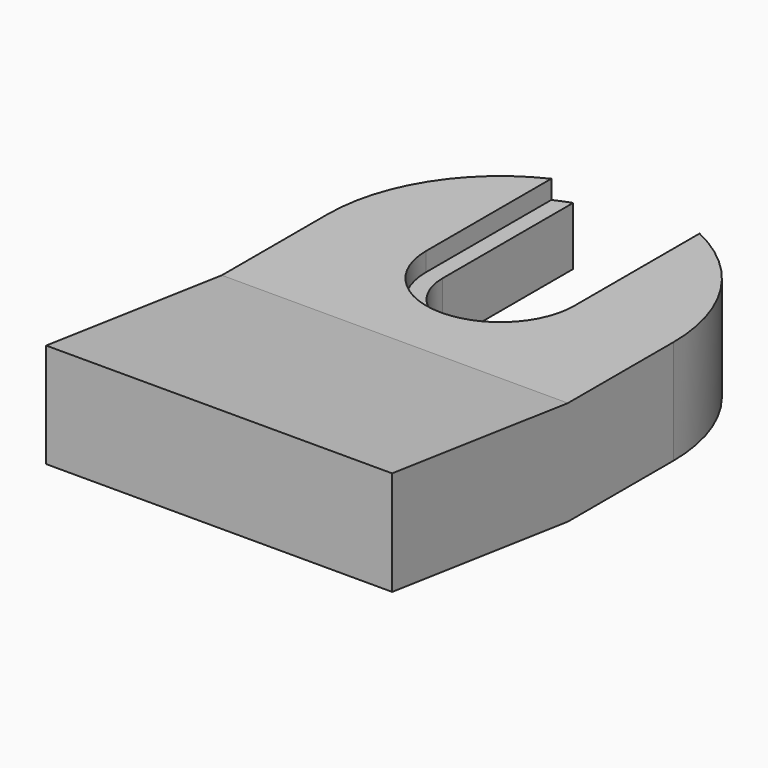
from build123d import *

# Parameters (mm, degrees)
PAD_DEPTH            = 9.5
POCKET_DEPTH         = 1.7
POCKET001_DEPTH      = 100
POCKET001_DEPTH_BACK = 100
POCKET002_DEPTH      = 2.5
POCKET003_DEPTH      = 100
POCKET003_DEPTH_BACK = 100
PAD001_DEPTH         = 31.5


with BuildPart() as part:
    # Sketch → Pad (new body)
    with BuildSketch(Plane.XY):
        with BuildLine():
            ThreePointArc((15.75, 0), (0, 15.75), (-15.75, 0))
            Line((-15.75, 0), (-15.75, -32))
            Line((-15.75, -32), (15.75, -32))
            Line((15.75, 0), (15.75, -32))
        make_face()
    extrude(amount=PAD_DEPTH)

    # Sketch002 (on Face6 of Pad) → Pocket (cut)
    with BuildSketch(Plane.XY.offset(9.5)):
        with BuildLine():
            ThreePointArc((-6.75, 0), (0, -6.75), (6.75, 0))
            Line((6.75, 0), (6.75, 32))
            Line((-6.75, 32), (6.75, 32))
            Line((-6.75, 0), (-6.75, 32))
        make_face()
    extrude(amount=-POCKET_DEPTH, mode=Mode.SUBTRACT)

    # Sketch001 (on Face6 of Pad) → Pocket001 (cut, two sides)
    with BuildSketch(Plane.XY.offset(9.5)) as pocket001_sk:
        with BuildLine():
            ThreePointArc((-5.25, 0), (0, -5.25), (5.25, 0))
            Line((5.25, 0), (5.25, 32))
            Line((-5.25, 32), (5.25, 32))
            Line((-5.25, 0), (-5.25, 32))
        make_face()
    extrude(amount=-POCKET001_DEPTH, mode=Mode.SUBTRACT)
    extrude(pocket001_sk.sketch, amount=POCKET001_DEPTH_BACK, mode=Mode.SUBTRACT)

    # Sketch003 (on Face2 of Pocket001) → Pocket002 (cut)
    with BuildSketch(Plane(origin=(0, 0, 0), x_dir=(1, 0, 0), z_dir=(0, 0, -1))):
        with BuildLine():
            ThreePointArc((10.25, 0), (0, 10.25), (-10.25, 0))
            Line((-10.25, 0), (-10.25, -32))
            Line((-10.25, -32), (10.25, -32))
            Line((10.25, 0), (10.25, -32))
        make_face()
    extrude(amount=-POCKET002_DEPTH, mode=Mode.SUBTRACT)

    # Sketch004 (on Face11 of Pocket002) → Pocket003 (cut, two sides)
    with BuildSketch(Plane(origin=(-15.75, 0, 0), x_dir=(0, -1, 0), z_dir=(-1, 0, 0))) as pocket003_sk:
        Polygon((12, 0), (32, 2.5), (32, 0), align=None)
    extrude(amount=-POCKET003_DEPTH, mode=Mode.SUBTRACT)
    extrude(pocket003_sk.sketch, amount=POCKET003_DEPTH_BACK, mode=Mode.SUBTRACT)

    # Sketch005 (on Face11 of Pocket003) → Pad001 (join)
    with BuildSketch(Plane(origin=(-15.75, 0, 0), x_dir=(0, -1, 0), z_dir=(-1, 0, 0))):
        Polygon((12, 9.5), (32, 12), (32, 9.5), align=None)
    extrude(amount=-PAD001_DEPTH)


solid = part.part
